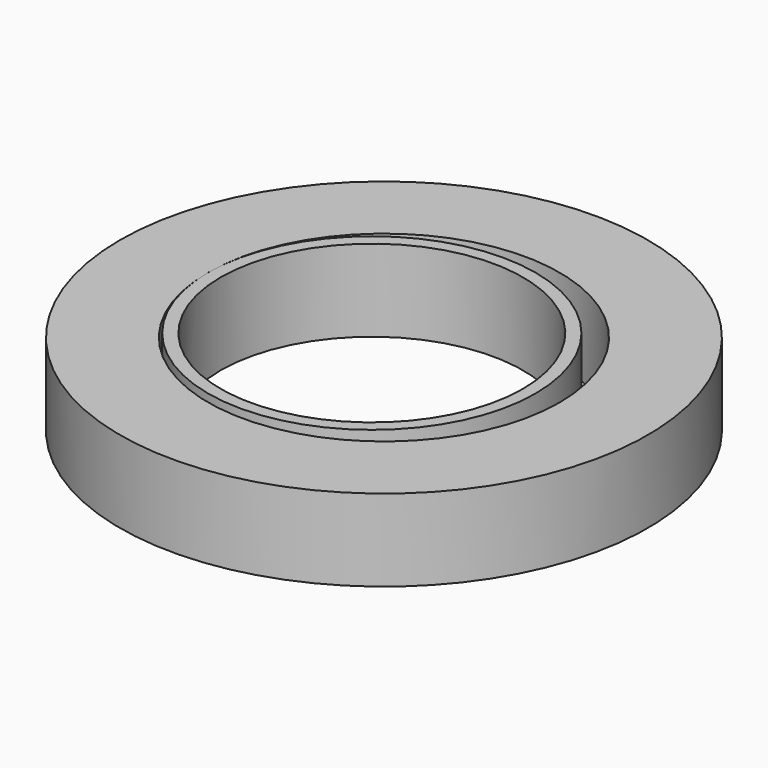
from build123d import *

# Parameters (mm, degrees)
F0_W = 3.175
F0_H = 20.6502
F1_W = 22.225
F1_H = 20.6502


with BuildPart() as f2:
    # F0 (on Front) → F2 (revolve)
    with BuildSketch(Plane.XZ):
        with Locations((-1.5875, 10.3251)):
            Rectangle(F0_W, F0_H)
    revolve(axis=Axis((38.1, 0, 3.615384), (0, 0, -1)))

    # F1 (on Front) → F3 (revolve)
    with BuildSketch(Plane.XZ):
        with Locations((-14.2875, 10.3251)):
            Rectangle(F1_W, F1_H)
    revolve(axis=Axis((41.148, 0, 9.431434), (0, 0, -1)))


solid = f2.part
